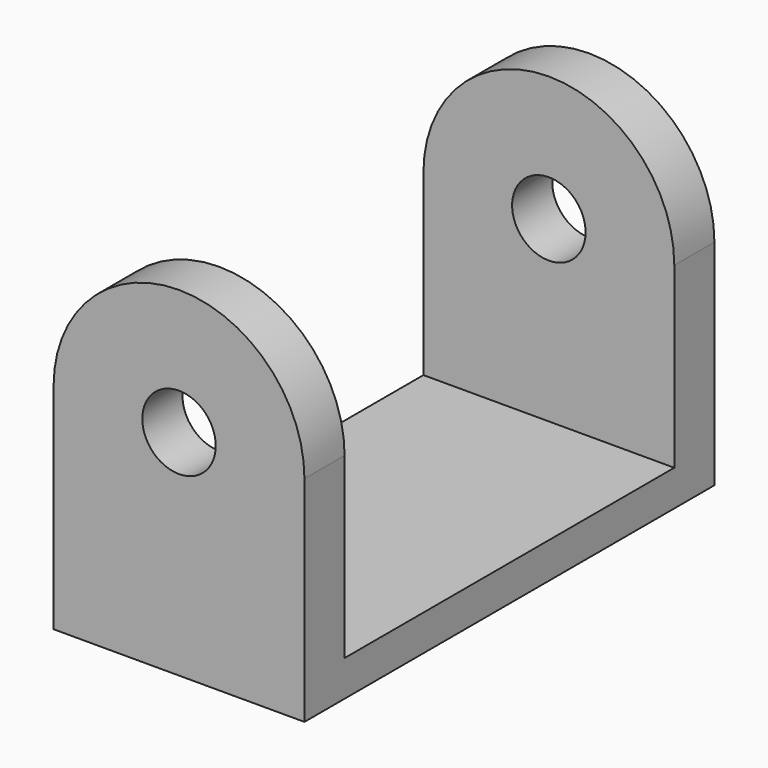
from build123d import *

# Parameters (mm, degrees)
F1_R     = 2.05
F2_DEPTH = 2.8
F3_W     = 14
F3_H     = 2
F4_DEPTH = 11.5


with BuildPart() as f2:
    # F1 (on offset) → F2 (new body)
    with BuildSketch(Plane.XZ.offset(11.5)):
        with BuildLine():
            Line((-7, 11.95), (-7, 0))
            Line((-7, 0), (7, 0))
            Line((7, 0), (7, 11.95))
            ThreePointArc((7, 11.95), (0, 18.95), (-7, 11.95))
        make_face()
        with Locations((0, 11.95)):
            Circle(F1_R, mode=Mode.SUBTRACT)
    extrude(amount=F2_DEPTH)

    # F3 (on face) → F4 (join, through all)
    with BuildSketch(Plane(origin=(0, -11.5, 0), x_dir=(-1, 0, 0), z_dir=(0, 1, 0))):
        with Locations((0, 1)):
            Rectangle(F3_W, F3_H)
    extrude(amount=F4_DEPTH)

    # F5: F2 across plane


with BuildPart() as f2_1:
    add(f2.part)
    add(f2.part.mirror(Plane.XZ))


solid = f2_1.part
